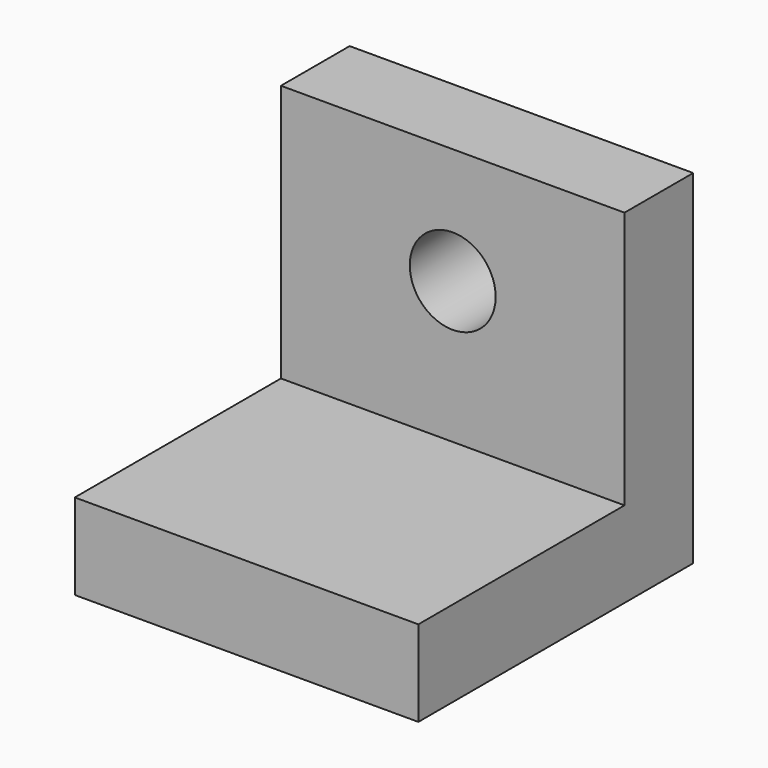
from build123d import *

# Parameters (mm, degrees)
F0_W     = 50.8
F0_H     = 50.8
F2_DEPTH = 12.7
F1_W     = 50.8
F1_H     = 12.7
F3_DEPTH = 50.8
F4_R     = 6.35
F5_DEPTH = 31.242


with BuildPart() as f2:
    # F0 (on Front) → F2 (new body)
    with BuildSketch(Plane.XZ):
        with Locations((-25.4, 25.4)):
            Rectangle(F0_W, F0_H)
    extrude(amount=F2_DEPTH)

    # F1 (on Front) → F3 (join)
    with BuildSketch(Plane.XZ):
        with Locations((-25.4, 6.35)):
            Rectangle(F1_W, F1_H)
    extrude(amount=F3_DEPTH)

    # F4 (on Front) → F5 (cut, symmetric)
    with BuildSketch(Plane.XZ):
        with Locations((-25.4, 33.634044)):
            Circle(F4_R)
    extrude(amount=F5_DEPTH, both=True, mode=Mode.SUBTRACT)


solid = f2.part
